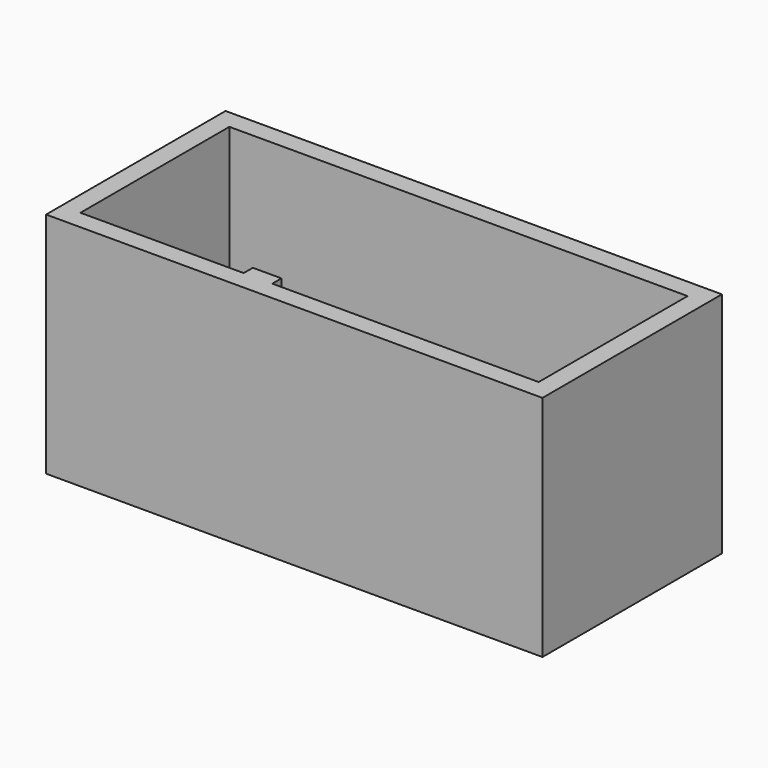
from build123d import *

# Parameters (mm, degrees)
F0_W     = 5200
F0_H     = 2350
F1_DEPTH = 2350
F2_W     = 5200
F2_H     = 2350
F3_DEPTH = 40


with BuildPart() as f1:
    # F0 (on Top) → F1 (new body)
    with BuildSketch(Plane.XY):
        with Locations((3.265701, -928.936625)):
            Rectangle(F0_W, F0_H)
        Polygon((-2396.734299, -1903.936625), (-2396.734299, 46.063375), (2403.265701, 46.063375), (2403.265701, -1903.936625), (-386.734299, -1903.936625), (-386.734299, -1783.936625), (-686.734299, -1783.936625), (-686.734299, -1903.936625), (-736.734299, -1903.936625), (-1496.734299, -1903.936625), align=None, mode=Mode.SUBTRACT)
    extrude(amount=F1_DEPTH)

    # F2 (on face) → F3 (join)
    with BuildSketch(Plane(origin=(0, 0, 0), x_dir=(1, 0, 0), z_dir=(0, 0, -1))):
        with Locations((3.265701, 928.936625)):
            Rectangle(F2_W, F2_H)
    extrude(amount=F3_DEPTH)


solid = f1.part
